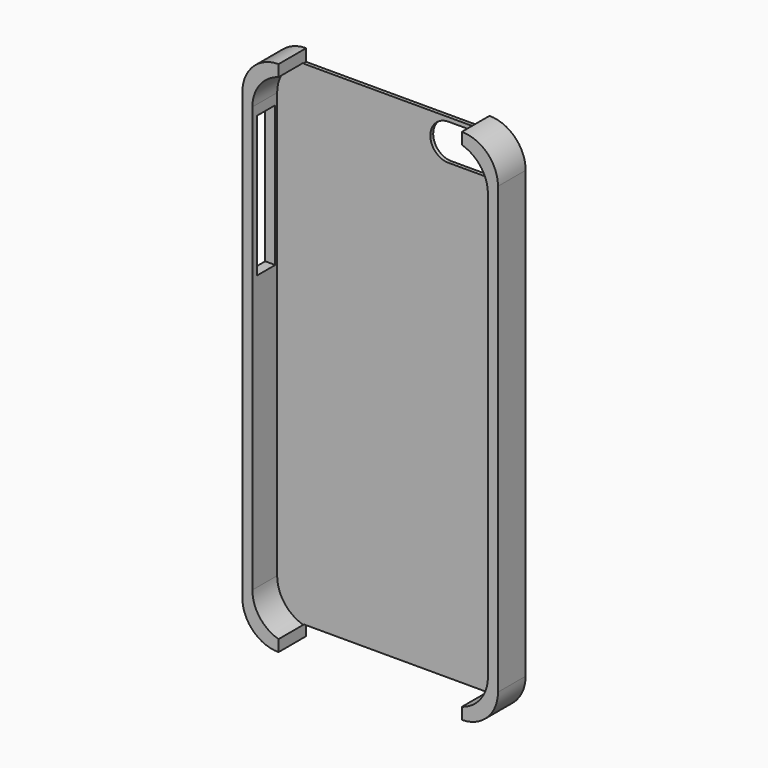
from build123d import *

# Parameters (mm, degrees)
F1_DEPTH  = 8.6
F3_DEPTH  = 7.7
F5_DEPTH  = 5
F6_W      = 45.6
F6_H      = 8.6
F7_DEPTH  = 3
F8_W      = 5.6
F8_H      = 35
F9_DEPTH  = 14.2
F10_W     = 45.6
F10_H     = 8.6
F11_DEPTH = 3
F13_DEPTH = 5
F15_DEPTH = 2


with BuildPart() as f1:
    # F0 (on Front) → F1 (new body)
    with BuildSketch(Plane.XZ):
        with BuildLine():
            Line((3.4848013847, 64.4517231077), (-42.1151986153, 64.4517231077))
            ThreePointArc((-42.1151986153, 64.4517231077), (-48.479159646, 61.8156841384), (-51.1151986153, 55.4517231077))
            Line((-51.1151986153, 55.4517231077), (-51.1151986153, -55.3482768923))
            ThreePointArc((-51.1151986153, -55.3482768923), (-48.479159646, -61.712237923), (-42.1151986153, -64.3482768923))
            Line((-42.1151986153, -64.3482768923), (3.4848013847, -64.3482768923))
            ThreePointArc((3.4848013847, -64.3482768923), (9.8487624154, -61.712237923), (12.4848013847, -55.3482768923))
            Line((12.4848013847, -55.3482768923), (12.4848013847, 55.4517231077))
            ThreePointArc((12.4848013847, 55.4517231077), (9.8487624154, 61.8156841384), (3.4848013847, 64.4517231077))
        make_face()
    extrude(amount=F1_DEPTH)

    # F2 (on face) → F3 (cut)
    with BuildSketch(Plane.XZ.offset(8.6)):
        with BuildLine():
            Line((0.9848013847, 61.9517231077), (-39.6151986153, 61.9517231077))
            ThreePointArc((-39.6151986153, 61.9517231077), (-45.979159646, 59.3156841384), (-48.6151986153, 52.9517231077))
            Line((-48.6151986153, 52.9517231077), (-48.6151986153, -52.8482768923))
            ThreePointArc((-48.6151986153, -52.8482768923), (-45.979159646, -59.212237923), (-39.6151986153, -61.8482768923))
            Line((-39.6151986153, -61.8482768923), (0.9848013847, -61.8482768923))
            ThreePointArc((0.9848013847, -61.8482768923), (7.3487624154, -59.212237923), (9.9848013847, -52.8482768923))
            Line((9.9848013847, -52.8482768923), (9.9848013847, 52.9517231077))
            ThreePointArc((9.9848013847, 52.9517231077), (7.3487624154, 59.3156841384), (0.9848013847, 61.9517231077))
        make_face()
    extrude(amount=-F3_DEPTH, mode=Mode.SUBTRACT)

    # F4 (on face) → F5 (cut)
    with BuildSketch(Plane(origin=(0, 0, 0), x_dir=(-1, 0, 0), z_dir=(0, 1, 0))):
        with BuildLine():
            Line((6.0151986153, 60.4517231077), (-2.9848013847, 60.4517231077))
            ThreePointArc((-2.9848013847, 60.4517231077), (-6.1667819, 59.133703623), (-7.4848013847, 55.9517231077))
            ThreePointArc((-7.4848013847, 55.9517231077), (-6.1667819, 52.7697425924), (-2.9848013847, 51.4517231077))
            Line((-2.9848013847, 51.4517231077), (6.0151986153, 51.4517231077))
            ThreePointArc((6.0151986153, 51.4517231077), (9.1971791307, 52.7697425924), (10.5151986153, 55.9517231077))
            ThreePointArc((10.5151986153, 55.9517231077), (9.1971791307, 59.133703623), (6.0151986153, 60.4517231077))
        make_face()
    extrude(amount=-F5_DEPTH, mode=Mode.SUBTRACT)

    # F6 (on face) → F7 (cut)
    with BuildSketch(Plane(origin=(0, 0, -64.3482768923), x_dir=(1, 0, 0), z_dir=(0, 0, -1))):
        with Locations((-19.3151986153, 4.3)):
            Rectangle(F6_W, F6_H)
    extrude(amount=-F7_DEPTH, mode=Mode.SUBTRACT)

    # F8 (on face) → F9 (cut)
    with BuildSketch(Plane(origin=(-51.1151986153, 0, 0), x_dir=(0, -1, 0), z_dir=(-1, 0, 0))):
        with Locations((4.3, 32.9517231077)):
            Rectangle(F8_W, F8_H)
    extrude(amount=-F9_DEPTH, mode=Mode.SUBTRACT)

    # F10 (on face) → F11 (cut)
    with BuildSketch(Plane.XY.offset(64.4517231077)):
        with Locations((-19.3151986153, -4.3)):
            Rectangle(F10_W, F10_H)
    extrude(amount=-F11_DEPTH, mode=Mode.SUBTRACT)

    # F12 (on face) → F13 (join)
    with BuildSketch(Plane(origin=(0, 0, 0), x_dir=(-1, 0, 0), z_dir=(0, 1, 0))):
        Polygon((10.6879380899, 31.2634583622), (6.749325754, 31.2634583622), (3.9166819364, 27.1432485372), (7.8552942723, 27.1432485372), align=None)
        Polygon((13.5205856233, 27.1432485372), (10.6879380899, 31.2634583622), (7.8552942723, 27.1432485372), align=None)
        Polygon((16.3532294408, 31.2634583622), (10.6879380899, 31.2634583622), (13.5205856233, 27.1432485372), align=None)
        Polygon((7.8552942723, 27.1432485372), (3.9166819364, 27.1432485372), (17.0616876136, 8.9319211103), align=None)
        Polygon((19.2072947722, 27.1432485372), (16.3532294408, 31.2634583622), (13.5205856233, 27.1432485372), align=None)
        Polygon((22.0399385898, 31.2634583622), (16.3532294408, 31.2634583622), (19.2072947722, 27.1432485372), align=None)
        Polygon((13.5205856233, 27.1432485372), (7.8552942723, 27.1432485372), (17.0616876136, 8.9319211103), align=None)
        Polygon((19.2072947722, 27.1432485372), (13.5205856233, 27.1432485372), (17.0616876136, 8.9319211103), align=None)
        Polygon((24.8940039212, 27.1432485372), (17.0616876136, 8.9319211103), (29.5819732873, 27.1432485372), align=None)
        Polygon((19.2072947722, 27.1432485372), (17.0616876136, 8.9319211103), (24.8940039212, 27.1432485372), align=None)
        Polygon((24.8940039212, 27.1432485372), (22.0399385898, 31.2634583622), (19.2072947722, 27.1432485372), align=None)
        Polygon((26.749325754, 31.2634583622), (22.0399385898, 31.2634583622), (24.8940039212, 27.1432485372), (29.5819732873, 27.1432485372), align=None)
    extrude(amount=F13_DEPTH)

    # F14 (on face) → F15 (join)
    with BuildSketch(Plane(origin=(0, 5, 0), x_dir=(-1, 0, 0), z_dir=(0, 1, 0))):
        Polygon((12.4146133892, 31.2634583622), (9.5819695716, 27.1432485372), (15.2472572067, 27.1432485372), align=None)
        Polygon((15.2472572067, 27.1432485372), (9.5819695716, 27.1432485372), (17.0616876136, 8.9319211103), align=None)
        Polygon((16.749325754, 31.2634583622), (15.2472572067, 27.1432485372), (18.2513943012, 27.1432485372), align=None)
        Polygon((18.2513943012, 27.1432485372), (15.2472572067, 27.1432485372), (17.0616876136, 8.9319211103), align=None)
        Polygon((18.2513943012, 27.1432485372), (17.0616876136, 8.9319211103), (23.9166819364, 27.1432485372), align=None)
        Polygon((21.0840381188, 31.2634583622), (18.2513943012, 27.1432485372), (23.9166819364, 27.1432485372), align=None)
    extrude(amount=F15_DEPTH)


solid = f1.part
